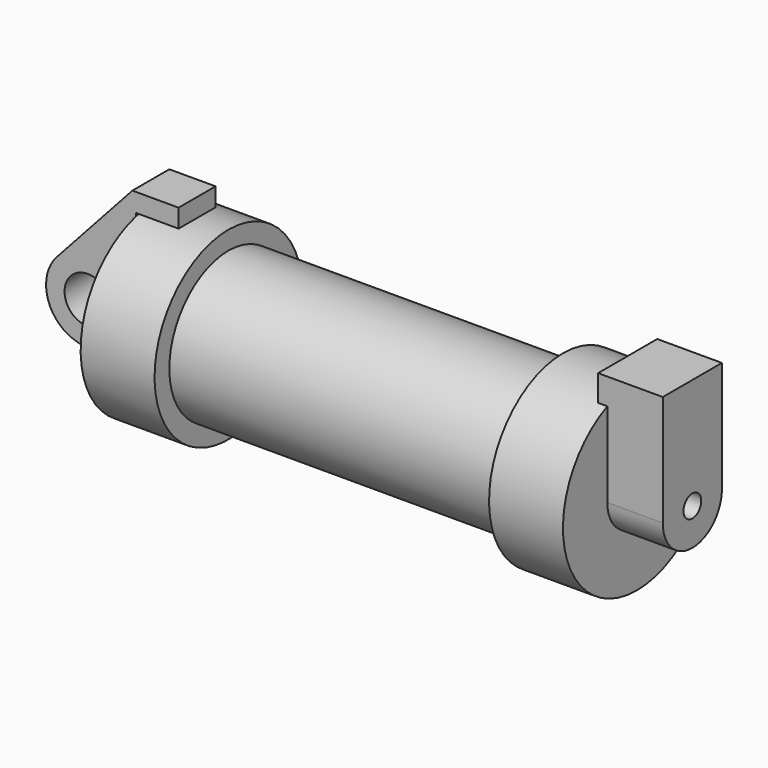
from build123d import *

# Parameters (mm, degrees)
F0_W     = 5.842
F0_H     = 12.7
F0_R     = 3.175
F2_DEPTH = 3.175
F3_R     = 1.524
F4_DEPTH = 7.62
F5_DEPTH = 1.27


with BuildPart() as f1:
    # F0 (on Front) → F1 (revolve)
    with BuildSketch(Plane.XZ):
        with Locations((2.921, 6.35)):
            Rectangle(F0_W, F0_H)
        Polygon((5.842, 12.7), (5.842, 0), (66.294, 0), (66.294, 12.7), (56.134, 12.7), (56.134, 10.16), (10.16, 10.16), (10.16, 12.7), align=None)
    revolve(axis=Axis((33.147, 0, 0), (-1, 0, 0)))

    # F3 (on face) → F4 (join)
    with BuildSketch(Plane.YZ.offset(66.294)):
        with BuildLine():
            ThreePointArc((-5.08, 0), (0, -5.08), (5.08, 0))
            ThreePointArc((5.08, 0), (0, 5.08), (-5.08, 0))
        make_face()
        Circle(F3_R, mode=Mode.SUBTRACT)
        with BuildLine():
            ThreePointArc((-5.08, 0), (0, 5.08), (5.08, 0))
            Line((5.08, 0), (5.08, 15.24))
            Line((5.08, 15.24), (-5.08, 15.24))
            Line((-5.08, 15.24), (-5.08, 0))
        make_face()
    extrude(amount=F4_DEPTH)

    # F5 (add): a face of the model
    f5_faces = [f1.faces().sort_by_distance(p)[0] for p in [
        (66.294, 0, 13.7792682875),
    ]]
    extrude(f5_faces, amount=F5_DEPTH)


with BuildPart() as f2:
    # F0 (on Front) → F2 (new body, symmetric)
    with BuildSketch(Plane.XZ):
        with BuildLine():
            ThreePointArc((-8.1826630726, -5.5069827884), (-3.1957909266, -4.5493385486), (-0.9398, 0))
            ThreePointArc((-0.9398, 0), (-4.5919612295, 5.3297205562), (-10.8806298187, 3.8475430269))
            ThreePointArc((-10.8806298187, 3.8475430269), (-12.1459778134, -1.5837270034), (-8.1826630726, -5.5069827884))
        make_face()
        with Locations((-6.6548, 0)):
            Circle(F0_R, mode=Mode.SUBTRACT)
        with BuildLine():
            Line((-0.9398, 0), (0, 0))
            Line((0, 0), (0, 12.7))
            Line((0, 12.7), (5.842, 12.7))
            Line((5.842, 12.7), (5.842, 15.24))
            Line((5.842, 15.24), (-0.508, 15.24))
            Line((-0.508, 15.24), (-10.8806298187, 3.8475430269))
            ThreePointArc((-10.8806298187, 3.8475430269), (-4.5919612295, 5.3297205562), (-0.9398, 0))
        make_face()
        with BuildLine():
            Line((5.842, 0), (0, 0))
            Line((0, 0), (-0.9398, 0))
            ThreePointArc((-0.9398, 0), (-3.1957909266, -4.5493385486), (-8.1826630726, -5.5069827884))
            Line((-8.1826630726, -5.5069827884), (5.842, -9.398))
            Line((5.842, -9.398), (5.842, 0))
        make_face()
    extrude(amount=F2_DEPTH, both=True)


solid = Compound([f1.part, f2.part])
